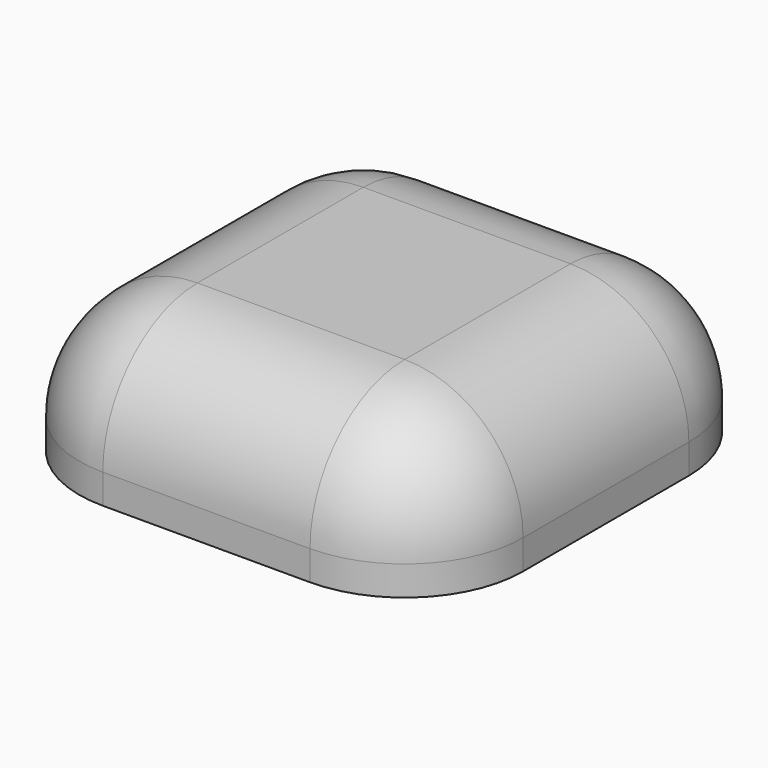
from build123d import *

# Parameters (mm, degrees)
F0_W     = 19.05
F0_H     = 19.05
F1_DEPTH = 3.175
F2_R     = 5.08


with BuildPart() as f1:
    # F0 (on Top) → F1 (new body, symmetric)
    with BuildSketch(Plane.XY):
        with Locations((-4.120239, 0)):
            Rectangle(F0_W, F0_H)
    extrude(amount=F1_DEPTH, both=True)

    # F2
    f2_edges = [f1.edges().sort_by_distance(p)[0] for p in [
        (-4.120239, -9.525, 3.175),
        (5.404761, 0, 3.175),
        (-4.120239, 9.525, 3.175),
        (-13.645239, 0, 3.175),
        (5.404761, -9.525, 0),
        (-13.645239, -9.525, 0),
        (-13.645239, 9.525, 0),
        (5.404761, 9.525, 0),
    ]]
    fillet(f2_edges, radius=F2_R)


solid = f1.part
